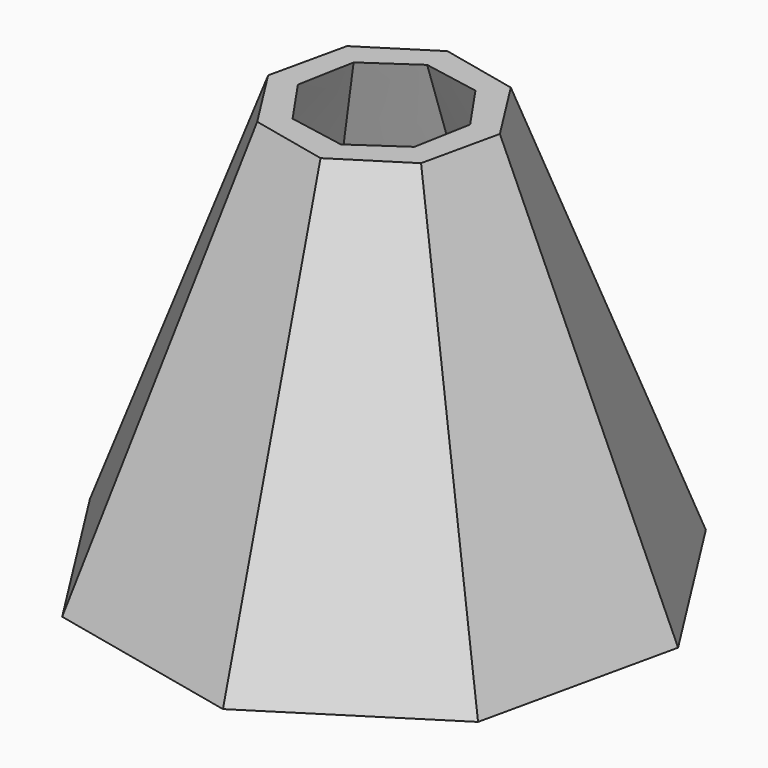
from build123d import *

# Parameters (mm, degrees)
F1_DEPTH = 80


with BuildPart() as f1:
    # F0 (on Top) → F1 (new body)
    with BuildSketch(Plane.XY):
        Polygon((5.8453632716, -35.2880286434), (29.0857003563, -20.8191083406), (35.2880286434, 5.8453632716), (20.8191083406, 29.0857003563), (-5.8453632716, 35.2880286434), (-29.0857003563, 20.8191083406), (-35.2880286434, -5.8453632716), (-20.8191083406, -29.0857003563), align=None)
        Polygon((29.0857003563, -20.8191083406), (41.557197225, -29.1534808936), (50, 8.7707519298), (35.2880286434, 5.8453632716), align=None)
        Polygon((35.2880286434, 5.8453632716), (50, 8.7707519298), (29.1534808936, 41.557197225), (20.8191083406, 29.0857003563), align=None)
        Polygon((20.8191083406, 29.0857003563), (29.1534808936, 41.557197225), (-8.7707519298, 50), (-5.8453632716, 35.2880286434), align=None)
        Polygon((-5.8453632716, 35.2880286434), (-8.7707519298, 50), (-41.557197225, 29.1534808936), (-29.0857003563, 20.8191083406), align=None)
        Polygon((-41.557197225, 29.1534808936), (-50, -8.7707519298), (-35.2880286434, -5.8453632716), (-29.0857003563, 20.8191083406), align=None)
        Polygon((-50, -8.7707519298), (-29.1534808936, -41.557197225), (-20.8191083406, -29.0857003563), (-35.2880286434, -5.8453632716), align=None)
        Polygon((-29.1534808936, -41.557197225), (8.7707519298, -50), (5.8453632716, -35.2880286434), (-20.8191083406, -29.0857003563), align=None)
        Polygon((8.7707519298, -50), (41.557197225, -29.1534808936), (29.0857003563, -20.8191083406), (5.8453632716, -35.2880286434), align=None)
    extrude(amount=F1_DEPTH)

    # F2 (on face) → F3 section 0
    with BuildSketch(Plane.XY.offset(80)):
        Polygon((3.4555393442, -19.6992194729), (16.3728869763, -11.4860163705), (19.6992194729, 3.4555393442), (11.4860163705, 16.3728869763), (-3.4555393442, 19.6992194729), (-16.3728869763, 11.4860163705), (-19.6992194729, -3.4555393442), (-11.4860163705, -16.3728869763), align=None)
    # F1_face1 (on face) → F3 section 1
    with BuildSketch(Plane(origin=(0, 0, 0), x_dir=(1, 0, 0), z_dir=(0, 0, -1))):
        Polygon((50, -8.7707519298), (41.557197225, 29.1534808936), (8.7707519298, 50), (-29.1534808936, 41.557197225), (-50, 8.7707519298), (-41.557197225, -29.1534808936), (-8.7707519298, -50), (29.1534808936, -41.557197225), align=None)
    loft(mode=Mode.INTERSECT)

    # F5 (on face) → F6 section 0
    with BuildSketch(Plane(origin=(0, 0, 0), x_dir=(1, 0, 0), z_dir=(0, 0, -1))):
        Polygon((-6.6426697767, -44.8623552041), (27.0253987405, -36.4195524291), (44.8623552041, -6.6426697767), (36.4195524291, 27.0253987405), (6.6426697767, 44.8623552041), (-27.0253987405, 36.4195524291), (-44.8623552041, 6.6426697767), (-36.4195524291, -27.0253987405), align=None)
    # F4 (on face) → F6 section 1
    with BuildSketch(Plane.XY.offset(80)):
        Polygon((3.0433167547, -14.2670636416), (12.2402873631, -7.9363875341), (14.2670636416, 3.0433167547), (7.9363875341, 12.2402873631), (-3.0433167547, 14.2670636416), (-12.2402873631, 7.9363875341), (-14.2670636416, -3.0433167547), (-7.9363875341, -12.2402873631), align=None)
    loft(mode=Mode.SUBTRACT)


solid = f1.part
